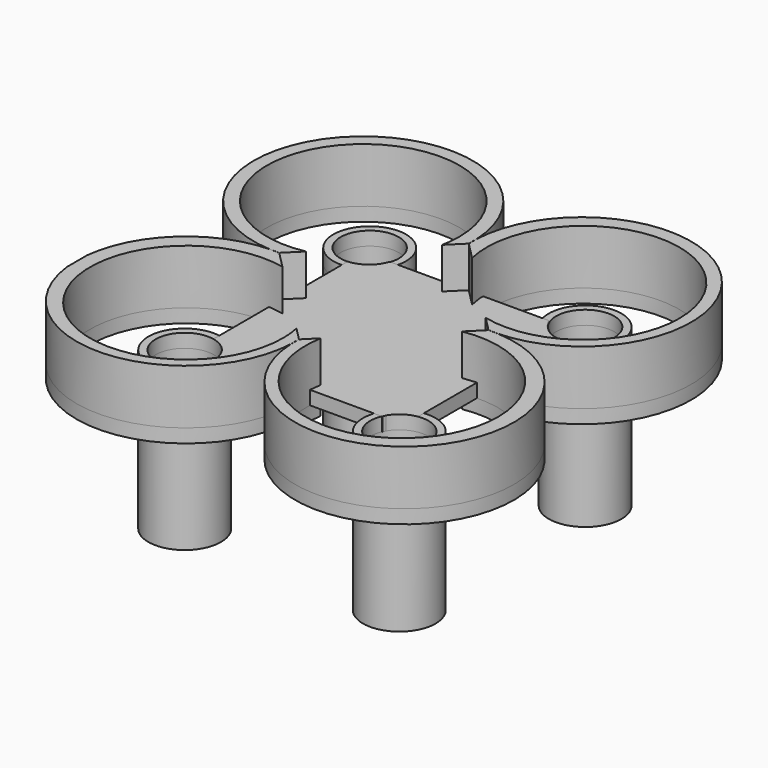
from build123d import *

# Parameters (mm, degrees)
F1_DEPTH = 8
F2_R     = 5.3091536447
F2_R_2   = 4.25
F3_DEPTH = 21
F4_DEPTH = 2
F5_DEPTH = 2
F7_DEPTH = 2


with BuildPart() as f1:
    # F0 (on Top) → F1 (new body)
    with BuildSketch(Plane.XY):
        with BuildLine():
            ThreePointArc((-11.8052634665, 17.3370482805), (-39.040118112, 28.0413442261), (-28.6469504602, 0.6862473443))
            ThreePointArc((-28.6469504602, 0.6862473443), (-27.9640533546, 0.6934263167), (-27.2814719722, 0.6714569994))
            Line((-27.2814719722, 0.6714569994), (-25.0887153763, 2.8393605825))
            ThreePointArc((-25.0887153763, 2.8393605825), (-38.6646550928, 25.6171292926), (-13.705437652, 16.6633395175))
            ThreePointArc((-13.705437652, 16.6633395175), (-13.7789688928, 15.2259593684), (-13.9987949051, 13.8035863298))
            Line((-13.9987949051, 13.8035863298), (-11.8060383093, 15.9714899129))
            ThreePointArc((-11.8060383093, 15.9714899129), (-11.8202258854, 16.6542773668), (-11.8052634665, 17.3370482805))
        make_face()
    extrude(amount=F1_DEPTH)


with BuildPart() as f1b:
    # F0 (on Top) → F1, piece 2 (new body)
    with BuildSketch(Plane.XY):
        with BuildLine():
            ThreePointArc((-28.6469504602, 0.6862473443), (-38.969445561, -3.529995631), (-44.0311548898, -13.4652716011))
            Line((-44.0311548898, -13.4652716011), (-44.0311548898, -17.1459987465))
            ThreePointArc((-44.0311548898, -17.1459987465), (-27.5612833428, -31.2952614428), (-12.1523141123, -15.9974847784))
            ThreePointArc((-12.1523141123, -15.9974847784), (-12.1665016884, -15.3146973245), (-12.1515392695, -14.6319264108))
            Line((-12.1515392695, -14.6319264108), (-14.0694673937, -12.6920110117))
            ThreePointArc((-14.0694673937, -12.6920110117), (-13.8478342387, -14.1200994389), (-13.7736963772, -15.5633809045))
            ThreePointArc((-13.7736963772, -15.5633809045), (-38.8379836536, -24.3880248502), (-24.8309667246, -1.807141028))
            Line((-24.8309667246, -1.807141028), (-27.2814719722, 0.6714569994))
            ThreePointArc((-27.2814719722, 0.6714569994), (-27.9643690778, 0.6642780269), (-28.6469504602, 0.6862473443))
        make_face()
    extrude(amount=F1_DEPTH)


with BuildPart() as f1c:
    # F0 (on Top) → F1, piece 3 (new body)
    with BuildSketch(Plane.XY):
        with BuildLine():
            ThreePointArc((4.6893728815, 0.6533161578), (15.5577762475, 27.8942434731), (-11.8052634665, 17.3370482805))
            ThreePointArc((-11.8052634665, 17.3370482805), (-11.7910758904, 16.6542608265), (-11.8060383093, 15.9714899129))
            Line((-11.8060383093, 15.9714899129), (-9.2926185414, 13.4292561082))
            ThreePointArc((-9.2926185414, 13.4292561082), (2.874141128, 30.5461324482), (18.5290077968, 16.5481809527))
            ThreePointArc((18.5290077968, 16.5481809527), (13.1689262383, 5.4906117081), (1.1680820245, 2.8486332696))
            Line((1.1680820245, 2.8486332696), (3.3186048275, 0.6734567084))
            ThreePointArc((3.3186048275, 0.6734567084), (3.5217112973, 0.6759451542), (3.7248329906, 0.675854993))
            ThreePointArc((3.7248329906, 0.675854993), (4.2072728617, 0.6718574719), (4.6893728815, 0.6533161578))
        make_face()
    extrude(amount=F1_DEPTH)


with BuildPart() as f1d:
    # F0 (on Top) → F1, piece 4 (new body)
    with BuildSketch(Plane.XY):
        with BuildLine():
            ThreePointArc((-12.1515392695, -14.6319264108), (-12.1373516934, -15.3147138647), (-12.1523141123, -15.9974847784))
            ThreePointArc((-12.1523141123, -15.9974847784), (15.0825405332, -26.7017807241), (4.6893728815, 0.6533161578))
            ThreePointArc((4.6893728815, 0.6533161578), (4.6164082098, 0.6511576475), (4.5434344497, 0.6493320445))
            ThreePointArc((4.5434344497, 0.6493320445), (3.9334854587, 0.6470943142), (3.3238943934, 0.6681065026))
            Line((3.3238943934, 0.6681065026), (1.149035119, -1.4821026098))
            ThreePointArc((1.149035119, -1.4821026098), (12.5833828818, -4.6170947319), (17.573306224, -15.3722399846))
            ThreePointArc((17.573306224, -15.3722399846), (2.2342944382, -29.402000507), (-10.3749078332, -12.875431566))
            Line((-10.3749078332, -12.875431566), (-12.1515392695, -14.6319264108))
        make_face()
    extrude(amount=F1_DEPTH)


with BuildPart() as f3:
    # F2 (on Top) → F3 (new body)
    with BuildSketch(Plane.XY):
        with Locations((-27.1955989301, 17.0966461301)):
            Circle(F2_R)
        with Locations((-27.1955989301, 17.0966461301)):
            Circle(F2_R_2, mode=Mode.SUBTRACT)
    extrude(amount=-F3_DEPTH)


with BuildPart() as f3b:
    # F2 (on Top) → F3, piece 2 (new body)
    with BuildSketch(Plane.XY):
        with Locations((4.2348494753, 17.1862374991)):
            Circle(F2_R)
        with Locations((4.2348494753, 17.1862374991)):
            Circle(F2_R_2, mode=Mode.SUBTRACT)
    extrude(amount=-F3_DEPTH)


with BuildPart() as f3c:
    # F2 (on Top) → F3, piece 3 (new body)
    with BuildSketch(Plane.XY):
        with Locations((-27.9056783766, -15.8256273717)):
            Circle(F2_R)
        with Locations((-27.9056783766, -15.8256273717)):
            Circle(F2_R_2, mode=Mode.SUBTRACT)
    extrude(amount=-F3_DEPTH)


with BuildPart() as f3d:
    # F2 (on Top) → F3, piece 4 (new body)
    with BuildSketch(Plane.XY):
        with Locations((3.8240837653, -16.2634769269)):
            Circle(F2_R)
        with Locations((3.8240837653, -16.2634769269)):
            Circle(F2_R_2, mode=Mode.SUBTRACT)
    extrude(amount=-F3_DEPTH)


with BuildPart() as f4:
    # F2 (on Top) → F4 (new body)
    with BuildSketch(Plane.XY):
        with Locations((-27.1955989301, 17.0966461301)):
            Circle(F2_R)
        with Locations((-27.1955989301, 17.0966461301)):
            Circle(F2_R_2, mode=Mode.SUBTRACT)
    extrude(amount=F4_DEPTH)


with BuildPart() as f4b:
    # F2 (on Top) → F4, piece 2 (new body)
    with BuildSketch(Plane.XY):
        with Locations((4.2348494753, 17.1862374991)):
            Circle(F2_R)
        with Locations((4.2348494753, 17.1862374991)):
            Circle(F2_R_2, mode=Mode.SUBTRACT)
    extrude(amount=F4_DEPTH)


with BuildPart() as f4c:
    # F2 (on Top) → F4, piece 3 (new body)
    with BuildSketch(Plane.XY):
        with Locations((-27.9056783766, -15.8256273717)):
            Circle(F2_R)
        with Locations((-27.9056783766, -15.8256273717)):
            Circle(F2_R_2, mode=Mode.SUBTRACT)
    extrude(amount=F4_DEPTH)


with BuildPart() as f4d:
    # F2 (on Top) → F4, piece 4 (new body)
    with BuildSketch(Plane.XY):
        with Locations((3.8240837653, -16.2634769269)):
            Circle(F2_R)
        with Locations((3.8240837653, -16.2634769269)):
            Circle(F2_R_2, mode=Mode.SUBTRACT)
    extrude(amount=F4_DEPTH)


with BuildPart() as f5:
    # F0 (on Top) → F5 (new body)
    with BuildSketch(Plane.XY):
        with BuildLine():
            ThreePointArc((-28.6469504602, 0.6862473443), (-38.969445561, -3.529995631), (-44.0311548898, -13.4652716011))
            Line((-44.0311548898, -13.4652716011), (-44.0311548898, -17.1459987465))
            ThreePointArc((-44.0311548898, -17.1459987465), (-27.5612833428, -31.2952614428), (-12.1523141123, -15.9974847784))
            ThreePointArc((-12.1523141123, -15.9974847784), (-12.1665016884, -15.3146973245), (-12.1515392695, -14.6319264108))
            Line((-12.1515392695, -14.6319264108), (-14.0694673937, -12.6920110117))
            ThreePointArc((-14.0694673937, -12.6920110117), (-13.8478342387, -14.1200994389), (-13.7736963772, -15.5633809045))
            ThreePointArc((-13.7736963772, -15.5633809045), (-38.8379836536, -24.3880248502), (-24.8309667246, -1.807141028))
            Line((-24.8309667246, -1.807141028), (-27.2814719722, 0.6714569994))
            ThreePointArc((-27.2814719722, 0.6714569994), (-27.9643690778, 0.6642780269), (-28.6469504602, 0.6862473443))
        make_face()
        with BuildLine():
            Line((-44.0311548898, -17.1459987465), (-44.0311548898, -13.4652716011))
            ThreePointArc((-44.0311548898, -13.4652716011), (-44.1373491177, -15.3056351738), (-44.0311548898, -17.1459987465))
        make_face()
        with BuildLine():
            ThreePointArc((-27.2814719722, 0.6714569994), (-27.9640533546, 0.6934263167), (-28.6469504602, 0.6862473443))
            ThreePointArc((-28.6469504602, 0.6862473443), (-27.9643690778, 0.6642780269), (-27.2814719722, 0.6714569994))
        make_face()
        with BuildLine():
            ThreePointArc((-11.8052634665, 17.3370482805), (-39.040118112, 28.0413442261), (-28.6469504602, 0.6862473443))
            ThreePointArc((-28.6469504602, 0.6862473443), (-27.9640533546, 0.6934263167), (-27.2814719722, 0.6714569994))
            Line((-27.2814719722, 0.6714569994), (-25.0887153763, 2.8393605825))
            ThreePointArc((-25.0887153763, 2.8393605825), (-38.6646550928, 25.6171292926), (-13.705437652, 16.6633395175))
            ThreePointArc((-13.705437652, 16.6633395175), (-13.7789688928, 15.2259593684), (-13.9987949051, 13.8035863298))
            Line((-13.9987949051, 13.8035863298), (-11.8060383093, 15.9714899129))
            ThreePointArc((-11.8060383093, 15.9714899129), (-11.8202258854, 16.6542773668), (-11.8052634665, 17.3370482805))
        make_face()
        with BuildLine():
            ThreePointArc((-12.1515392695, -14.6319264108), (-12.1665016884, -15.3146973245), (-12.1523141123, -15.9974847784))
            ThreePointArc((-12.1523141123, -15.9974847784), (-12.1373516934, -15.3147138647), (-12.1515392695, -14.6319264108))
        make_face()
        with BuildLine():
            ThreePointArc((-12.1515392695, -14.6319264108), (-12.1373516934, -15.3147138647), (-12.1523141123, -15.9974847784))
            ThreePointArc((-12.1523141123, -15.9974847784), (15.0825405332, -26.7017807241), (4.6893728815, 0.6533161578))
            ThreePointArc((4.6893728815, 0.6533161578), (4.6164082098, 0.6511576475), (4.5434344497, 0.6493320445))
            ThreePointArc((4.5434344497, 0.6493320445), (3.9334854587, 0.6470943142), (3.3238943934, 0.6681065026))
            Line((3.3238943934, 0.6681065026), (1.149035119, -1.4821026098))
            ThreePointArc((1.149035119, -1.4821026098), (12.5833828818, -4.6170947319), (17.573306224, -15.3722399846))
            ThreePointArc((17.573306224, -15.3722399846), (2.2342944382, -29.402000507), (-10.3749078332, -12.875431566))
            Line((-10.3749078332, -12.875431566), (-12.1515392695, -14.6319264108))
        make_face()
        with BuildLine():
            ThreePointArc((4.6893728815, 0.6533161578), (15.5577762475, 27.8942434731), (-11.8052634665, 17.3370482805))
            ThreePointArc((-11.8052634665, 17.3370482805), (-11.7910758904, 16.6542608265), (-11.8060383093, 15.9714899129))
            Line((-11.8060383093, 15.9714899129), (-9.2926185414, 13.4292561082))
            ThreePointArc((-9.2926185414, 13.4292561082), (2.874141128, 30.5461324482), (18.5290077968, 16.5481809527))
            ThreePointArc((18.5290077968, 16.5481809527), (13.1689262383, 5.4906117081), (1.1680820245, 2.8486332696))
            Line((1.1680820245, 2.8486332696), (3.3186048275, 0.6734567084))
            ThreePointArc((3.3186048275, 0.6734567084), (3.5217112973, 0.6759451542), (3.7248329906, 0.675854993))
            ThreePointArc((3.7248329906, 0.675854993), (4.2072728617, 0.6718574719), (4.6893728815, 0.6533161578))
        make_face()
        with BuildLine():
            ThreePointArc((-11.8060383093, 15.9714899129), (-11.7910758904, 16.6542608265), (-11.8052634665, 17.3370482805))
            ThreePointArc((-11.8052634665, 17.3370482805), (-11.8202258854, 16.6542773668), (-11.8060383093, 15.9714899129))
        make_face()
        with BuildLine():
            ThreePointArc((4.5434344497, 0.6493320445), (4.6164082098, 0.6511576475), (4.6893728815, 0.6533161578))
            ThreePointArc((4.6893728815, 0.6533161578), (4.2072728617, 0.6718574719), (3.7248329906, 0.675854993))
            ThreePointArc((3.7248329906, 0.675854993), (4.1343034598, 0.6678323456), (4.5434344497, 0.6493320445))
        make_face()
    extrude(amount=-F5_DEPTH)


with BuildPart() as f7:
    # F6 (on Top) → F7 (new body)
    with BuildSketch(Plane.XY):
        with BuildLine():
            Line((0, 15.819109045), (-23.2396945357, 15.819109045))
            ThreePointArc((-23.2396945357, 15.819109045), (-24.6810189805, 13.758887748), (-27.032636106, 12.8690423444))
            Line((-27.032636106, 12.8690423444), (-27.032636106, -11.6345584393))
            ThreePointArc((-27.032636106, -11.6345584393), (-25.0437097096, -12.6600720611), (-23.9019542933, -14.5846242085))
            Line((-23.9019542933, -14.5846242085), (0, -14.5846242085))
            ThreePointArc((0, -14.5846242085), (1.1661133533, -12.778862847), (3.190479707, -12.0559968054))
            Line((3.190479707, -12.0559968054), (3.190479707, 12.8690423444))
            ThreePointArc((3.190479707, 12.8690423444), (1.2886739454, 14.0125264764), (0, 15.819109045))
        make_face()
    extrude(amount=F7_DEPTH)


solid = Compound([f1.part, f1b.part, f1c.part, f1d.part, f3.part, f3b.part, f3c.part, f3d.part, f4.part, f4b.part, f4c.part, f4d.part, f5.part, f7.part])
